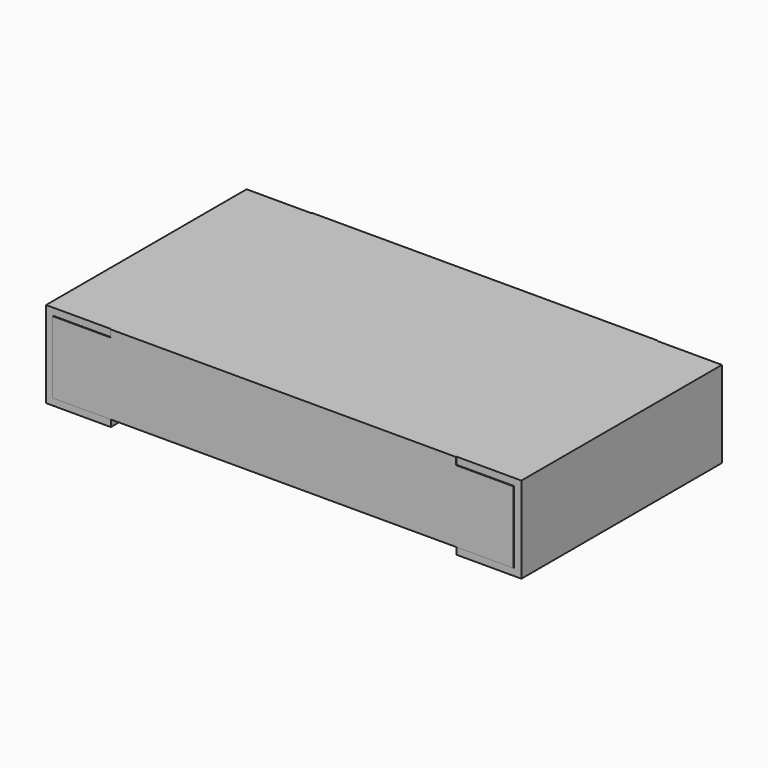
from build123d import *

# Parameters (mm, degrees)
PLATING_LEFT_W      = 0.45
PLATING_LEFT_H      = 1.74
PLATING_LEFT_DEPTH  = 0.6
PLATING_RIGHT_W     = 0.45
PLATING_RIGHT_H     = 1.74
PLATING_RIGHT_DEPTH = 0.6
MARKING_W           = 2.4
MARKING_H           = 1.75
MARKING_DEPTH       = 0.05
CHIP_W              = 3.2
CHIP_H              = 1.75
CHIP_DEPTH          = 0.5


with BuildPart() as plating_left:
    # plating_left → plating_left (new body)
    with BuildSketch(Plane(origin=(-1.65, -0.87, 0), x_dir=(1, 0, 0), z_dir=(0, 0, 1))):
        with Locations((0.225, 0.87)):
            Rectangle(PLATING_LEFT_W, PLATING_LEFT_H)
    extrude(amount=PLATING_LEFT_DEPTH)


with BuildPart() as plating_right:
    # plating_right → plating_right (new body)
    with BuildSketch(Plane(origin=(1.2, -0.87, 0), x_dir=(1, 0, 0), z_dir=(0, 0, 1))):
        with Locations((0.225, 0.87)):
            Rectangle(PLATING_RIGHT_W, PLATING_RIGHT_H)
    extrude(amount=PLATING_RIGHT_DEPTH)


with BuildPart() as marking:
    # marking → marking (new body)
    with BuildSketch(Plane(origin=(-1.2, -0.875, 0.55), x_dir=(1, 0, 0), z_dir=(0, 0, 1))):
        with Locations((1.2, 0.875)):
            Rectangle(MARKING_W, MARKING_H)
    extrude(amount=MARKING_DEPTH)


with BuildPart() as resistor:
    # chip → chip (new body)
    with BuildSketch(Plane(origin=(-1.6, -0.875, 0.05), x_dir=(1, 0, 0), z_dir=(0, 0, 1))):
        with Locations((1.6, 0.875)):
            Rectangle(CHIP_W, CHIP_H)
    extrude(amount=CHIP_DEPTH)

    # resistor: union plating_left, plating_right, marking
    add(plating_left.part)
    add(plating_right.part)
    add(marking.part)


solid = resistor.part
